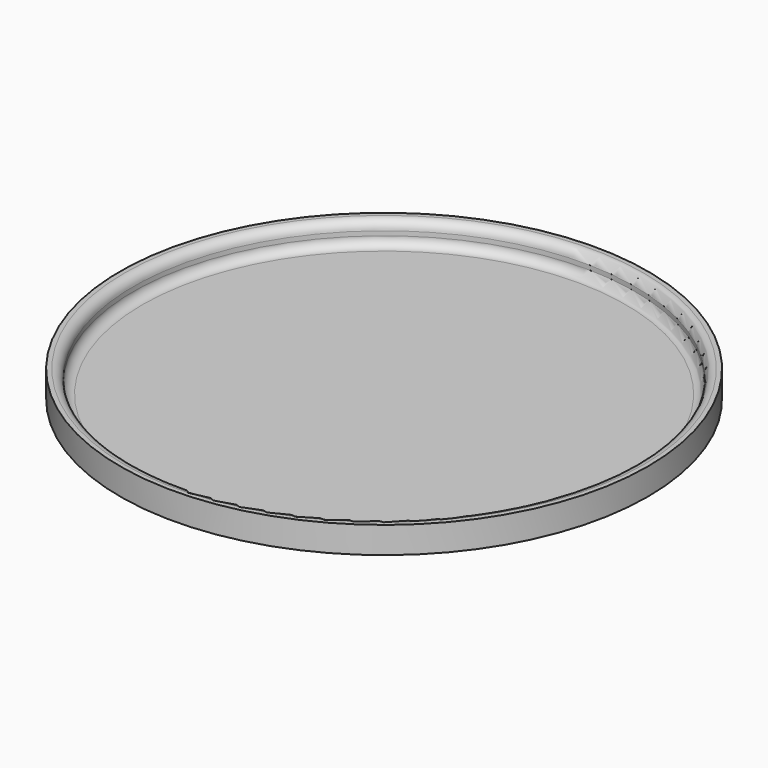
from build123d import *

# Parameters (mm, degrees)
F0_R     = 29.75
F0_R_2   = 28.25
F1_DEPTH = 3
F2_DEPTH = 0.5
F3_R     = 1


with BuildPart() as f1:
    # F0 (on Top) → F1 (new body)
    with BuildSketch(Plane.XY):
        Circle(F0_R)
        Circle(F0_R_2, mode=Mode.SUBTRACT)
    extrude(amount=F1_DEPTH)

    # F0 (on Top) → F2 (join)
    with BuildSketch(Plane.XY):
        Circle(F0_R)
        Circle(F0_R_2, mode=Mode.SUBTRACT)
        Circle(F0_R_2)
    extrude(amount=F2_DEPTH)

    # F3
    f3_edges = [f1.edges().sort_by_distance(p)[0] for p in [
        (-28.25, 0, 3),
        (-28.25, 0, 0.5),
    ]]
    fillet(f3_edges, radius=F3_R)


solid = f1.part
